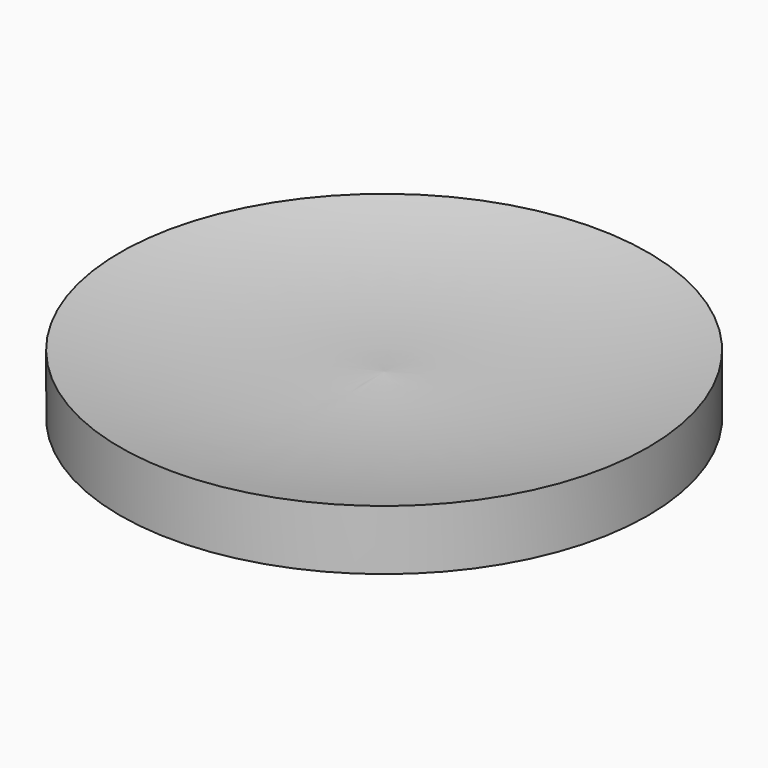
from build123d import *

# Parameters (mm, degrees)
F0_R          = 3.98
F1_DEPTH      = 3.25
F0_R_2        = 5.5
F2_DEPTH      = 0.4
F2_DEPTH_BACK = 0.4
F4_R          = 11
F5_DEPTH      = 2.5


with BuildPart() as f1:
    # F0 (on Top) → F1 (new body)
    with BuildSketch(Plane.XY):
        Circle(F0_R)
    extrude(amount=-F1_DEPTH)

    # F0 (on Top) → F2 (join, two sides)
    with BuildSketch(Plane.XY) as f2_sk:
        Circle(F0_R_2)
        Circle(F0_R, mode=Mode.SUBTRACT)
        Circle(F0_R)
    extrude(amount=F2_DEPTH)
    extrude(f2_sk.sketch, amount=-F2_DEPTH_BACK)

    # F4 (on offset) → F5 (join)
    with BuildSketch(Plane.XY.offset(0.4)):
        Circle(F4_R)
    extrude(amount=F5_DEPTH)

    # F6 (on Right) → F7 (revolve, cut)
    with BuildSketch(Plane.YZ):
        with BuildLine():
            Line((0, 2.9), (-11, 2.9))
            ThreePointArc((-11, 2.9), (-5.5265586474, 2.1348185979), (0, 2.1))
            Line((0, 2.1), (0, 2.9))
        make_face()
    revolve(axis=Axis((0, 0, 1.45), (0, 0, 1)), mode=Mode.SUBTRACT)


solid = f1.part
